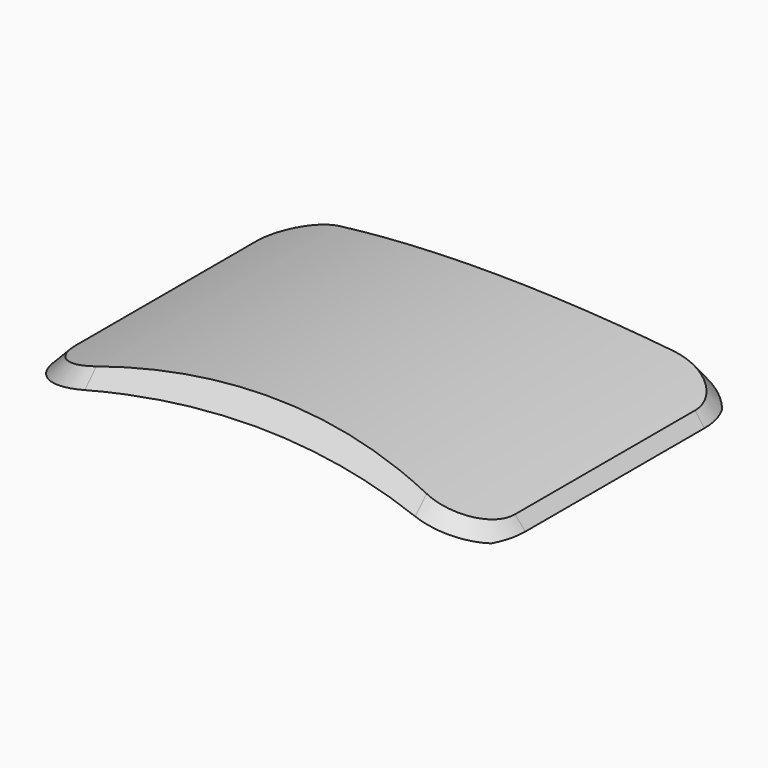
from build123d import *

# Parameters (mm, degrees)
SKETCH003_R  = 120
PAD001_DEPTH = 35
SKETCH002_R  = 150.91951
PAD_DEPTH    = 35


with BuildPart() as pad001:
    # Sketch003 → Pad001 (new body, symmetric)
    with BuildSketch(Plane.XZ):
        with Locations((-1.007223, -112)):
            Circle(SKETCH003_R)
    extrude(amount=PAD001_DEPTH, both=True)


with BuildPart() as pad:
    # Sketch002 → Pad (new body, symmetric)
    with BuildSketch(Plane.XZ):
        with Locations((-1.007223, -146)):
            Circle(SKETCH002_R)
    extrude(amount=PAD_DEPTH, both=True)


with BuildPart() as common:
    # Sketch001 → Loft section 0
    with BuildSketch(Plane.XY.offset(8)):
        with BuildLine():
            Line((-31.000014, 16.191998), (-31.000014, -21.808002))
            ThreePointArc((-31.000014, -21.808002), (-29.974879, -24.282877), (-27.500001, -25.308002))
            Line((-27.500001, -25.308002), (27.499999, -25.308002))
            ThreePointArc((27.499999, -25.308002), (29.974879, -24.282877), (31.000014, -21.808002))
            Line((31.000014, -21.808002), (31.000014, 16.191998))
            ThreePointArc((31.000014, 16.191998), (29.974879, 18.666873), (27.499999, 19.691998))
            Line((27.499999, 19.691998), (-27.500001, 19.691998))
            ThreePointArc((-27.500001, 19.691998), (-29.974879, 18.666873), (-31.000014, 16.191998))
        make_face()
    # Sketch → Loft section 1
    with BuildSketch(Plane.XY):
        with BuildLine():
            Line((-38.586045, 14.832981), (-38.586045, -22.167019))
            ThreePointArc((-38.586045, -22.167019), (-35.339018, -30.006036), (-27.5, -33.253064))
            Line((-27.5, -33.253064), (27.5, -33.253064))
            ThreePointArc((27.5, -33.253064), (35.339018, -30.006036), (38.586045, -22.167019))
            Line((38.586045, -22.167019), (38.586045, 14.832981))
            ThreePointArc((38.586045, 14.832981), (35.339018, 22.671999), (27.5, 25.919026))
            Line((27.5, 25.919026), (-27.5, 25.919026))
            ThreePointArc((-27.5, 25.919026), (-35.339018, 22.671999), (-38.586045, 14.832981))
        make_face()
    loft()

    # Cut: cut Pad
    add(pad.part, mode=Mode.SUBTRACT)

    # Common: intersect Pad001
    add(pad001.part, mode=Mode.INTERSECT)


solid = common.part
